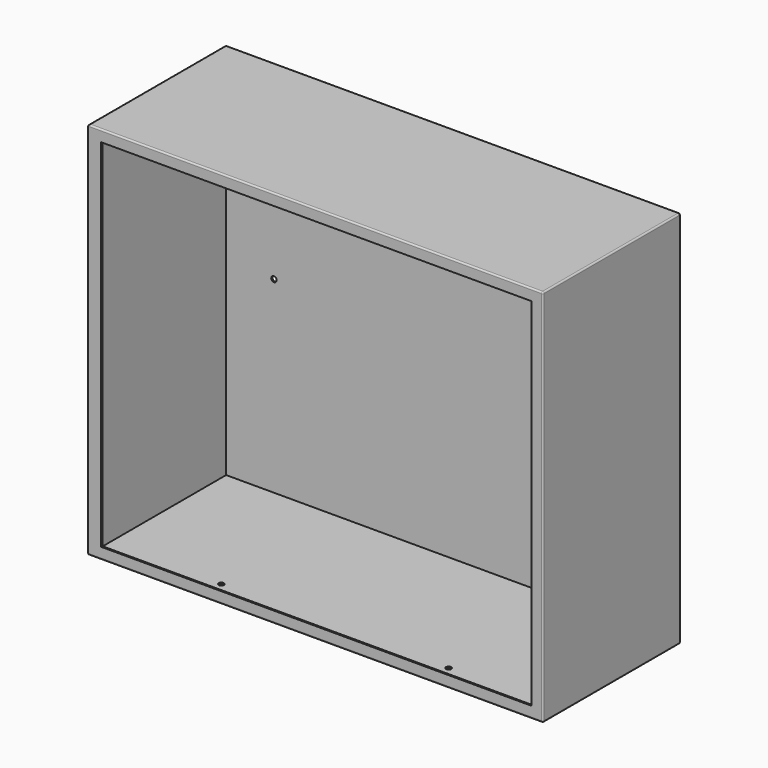
from build123d import *

# Parameters (mm, degrees)
F0_W     = 600
F0_H     = 500
F1_DEPTH = 225
F2_T     = -2
F3_W     = 600
F3_H     = 500
F3_W_2   = 568
F3_H_2   = 470
F4_DEPTH = 2
F6_D     = 7
F8_D     = 7
F8_DEPTH = 18
F9_R     = 2


with BuildPart() as f1:
    # F0 (on Front) → F1 (new body)
    with BuildSketch(Plane.XZ):
        with Locations((0, -50)):
            Rectangle(F0_W, F0_H)
    extrude(amount=-F1_DEPTH)

    # F2
    f2_openings = [f1.faces().sort_by_distance(p)[0] for p in [
        (0, 0, -50),
    ]]
    offset(amount=F2_T, openings=f2_openings)

    # F3 (on Front) → F4 (join)
    with BuildSketch(Plane.XZ):
        with Locations((0, -50)):
            Rectangle(F3_W, F3_H)
        with Locations((1, -50)):
            Rectangle(F3_W_2, F3_H_2, mode=Mode.SUBTRACT)
    extrude(amount=F4_DEPTH)

    # F6 (through all)
    with Locations(Plane.XZ.offset(-223)):
        with Locations((-200, 125), (200, 125), (235, -50), (-235, -50)):
            Hole(F6_D / 2)

    # F8
    with Locations(Plane(origin=(0, 0, -300), x_dir=(1, 0, 0), z_dir=(0, 0, -1))):
        with Locations((150, -30), (-150, -30)):
            Hole(F8_D / 2, depth=F8_DEPTH)

    # F9
    f9_edges = [f1.edges().sort_by_distance(p)[0] for p in [
        (0, -2, 200),
        (300, 111.5, 200),
        (0, 225, 200),
        (-300, 111.5, 200),
        (0, -2, -300),
        (0, 225, -300),
        (-300, 111.5, -300),
        (300, 111.5, -300),
        (300, 225, -50),
        (300, -2, -50),
        (-300, 225, -50),
    ]]
    fillet(f9_edges, radius=F9_R)


solid = f1.part
